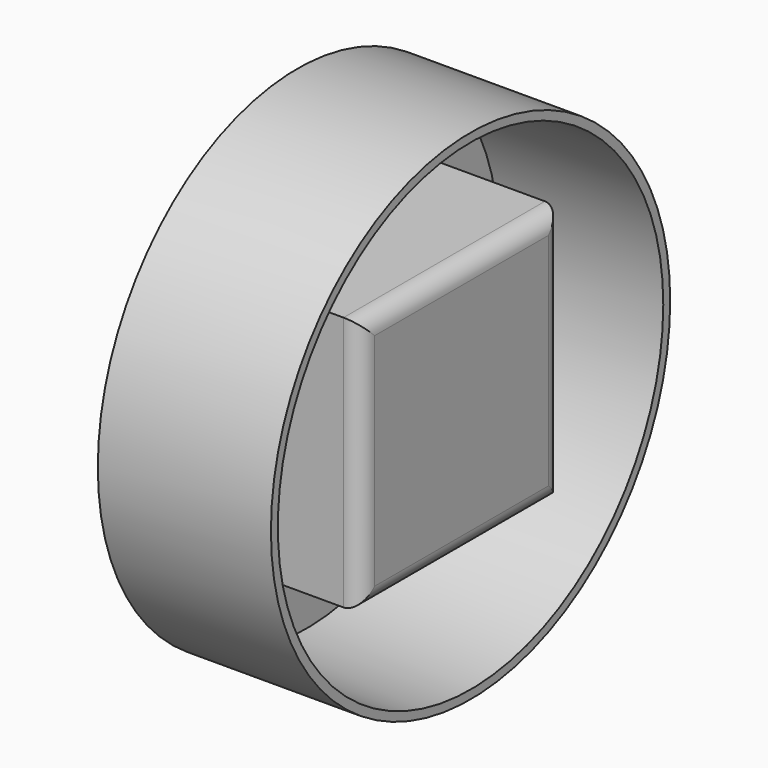
from build123d import *

# Parameters (mm, degrees)
F0_R     = 73.2317789394
F1_DEPTH = 25.4
F2_DEPTH = 25.4
F4_T     = -2.54
F3_W     = 73.9012621343
F3_H     = 74.8767629266
F5_DEPTH = 51.816
F6_R     = 5.08


with BuildPart() as f1:
    # F0 (on Right) → F1 (new body)
    with BuildSketch(Plane.YZ):
        Circle(F0_R)
    extrude(amount=F1_DEPTH)

    # F2 (add): a face of the model
    f2_faces = [f1.faces().sort_by_distance(p)[0] for p in [
        (25.4, 0, 0),
    ]]
    extrude(f2_faces, amount=F2_DEPTH)

    # F4
    f4_openings = [f1.faces().sort_by_distance(p)[0] for p in [
        (50.8, 0, 0),
    ]]
    offset(amount=F4_T, openings=f4_openings)

    # F3 (on face) → F5 (join)
    with BuildSketch(Plane.YZ.offset(50.8)):
        with Locations((-3.3096689731, 2.6898309588)):
            Rectangle(F3_W, F3_H)
    extrude(amount=-F5_DEPTH)

    # F6
    f6_edges = [f1.edges().sort_by_distance(p)[0] for p in [
        (50.8, -3.309669, 40.128212),
        (50.8, -40.2603, 2.689831),
        (50.8, 33.640962, 2.689831),
        (50.8, -3.309669, -34.748551),
    ]]
    fillet(f6_edges, radius=F6_R)


solid = f1.part
